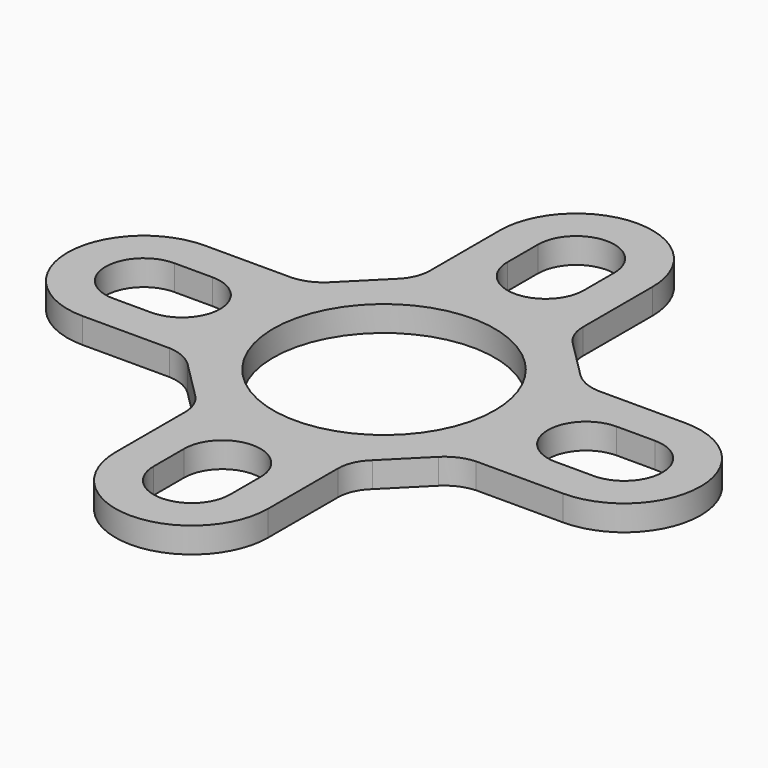
from build123d import *

# Parameters (mm, degrees)
F1_DEPTH = 1


with BuildPart() as f1:
    # F0 (on Top) → F1 (new body)
    with BuildSketch(Plane.XY):
        with BuildLine():
            Line((-4.928222, -3.4827), (-3.4827, -4.928222))
            ThreePointArc((-3.4827, -4.928222), (-3.126054, -5.423345), (-3, -6.020383))
            Line((-3, -6.020383), (-3, -9.436451))
            ThreePointArc((-3, -9.436451), (0, -12.436451), (3, -9.436451))
            Line((3, -9.436451), (3, -6.020383))
            ThreePointArc((3, -6.020383), (3.126054, -5.423345), (3.4827, -4.928222))
            Line((3.4827, -4.928222), (4.928222, -3.4827))
            ThreePointArc((4.928222, -3.4827), (5.42923, -3.13937), (6.020383, -3))
            Line((6.020383, -3), (9.436451, -3))
            ThreePointArc((9.436451, -3), (12.436451, 0), (9.436451, 3))
            Line((9.436451, 3), (6.020383, 3))
            ThreePointArc((6.020383, 3), (5.42923, 3.13937), (4.928222, 3.4827))
            Line((4.928222, 3.4827), (3.4827, 4.928222))
            ThreePointArc((3.4827, 4.928222), (3.126054, 5.423345), (3, 6.020383))
            Line((3, 6.020383), (3, 9.436451))
            ThreePointArc((3, 9.436451), (0, 12.436451), (-3, 9.436451))
            Line((-3, 9.436451), (-3, 6.020383))
            ThreePointArc((-3, 6.020383), (-3.126054, 5.423345), (-3.4827, 4.928222))
            Line((-3.4827, 4.928222), (-4.928222, 3.4827))
            ThreePointArc((-4.928222, 3.4827), (-5.42923, 3.13937), (-6.020383, 3))
            Line((-6.020383, 3), (-9.436451, 3))
            ThreePointArc((-9.436451, 3), (-12.436451, 0), (-9.436451, -3))
            Line((-9.436451, -3), (-6.020383, -3))
            ThreePointArc((-6.020383, -3), (-5.42923, -3.13937), (-4.928222, -3.4827))
        make_face()
        with BuildLine():
            ThreePointArc((-1.500459, -7.936451), (0, -6.435991), (1.500459, -7.936451))
            Line((1.500459, -7.936451), (1.500459, -9.436451))
            ThreePointArc((1.500459, -9.436451), (0, -10.93691), (-1.500459, -9.436451))
            Line((-1.500459, -9.436451), (-1.500459, -7.936451))
        make_face(mode=Mode.SUBTRACT)
        with BuildLine():
            Line((-9.436451, 1.500459), (-7.936451, 1.500459))
            ThreePointArc((-7.936451, 1.500459), (-6.435991, 0), (-7.936451, -1.500459))
            Line((-7.936451, -1.500459), (-9.436451, -1.500459))
            ThreePointArc((-9.436451, -1.500459), (-10.93691, 0), (-9.436451, 1.500459))
        make_face(mode=Mode.SUBTRACT)
        with BuildLine():
            ThreePointArc((3.075914, 3.075914), (4.018876, 1.664673), (4.35, 0))
            ThreePointArc((4.35, 0), (-4.018876, -1.664673), (3.075914, 3.075914))
        make_face(mode=Mode.SUBTRACT)
        with BuildLine():
            Line((9.436451, -1.500459), (7.936451, -1.500459))
            ThreePointArc((7.936451, -1.500459), (6.435991, 0), (7.936451, 1.500459))
            Line((7.936451, 1.500459), (9.436451, 1.500459))
            ThreePointArc((9.436451, 1.500459), (10.93691, 0), (9.436451, -1.500459))
        make_face(mode=Mode.SUBTRACT)
        with BuildLine():
            Line((1.500459, 9.436451), (1.500459, 7.936451))
            ThreePointArc((1.500459, 7.936451), (0, 6.435991), (-1.500459, 7.936451))
            Line((-1.500459, 7.936451), (-1.500459, 9.436451))
            ThreePointArc((-1.500459, 9.436451), (0, 10.93691), (1.500459, 9.436451))
        make_face(mode=Mode.SUBTRACT)
    extrude(amount=F1_DEPTH)


solid = f1.part
